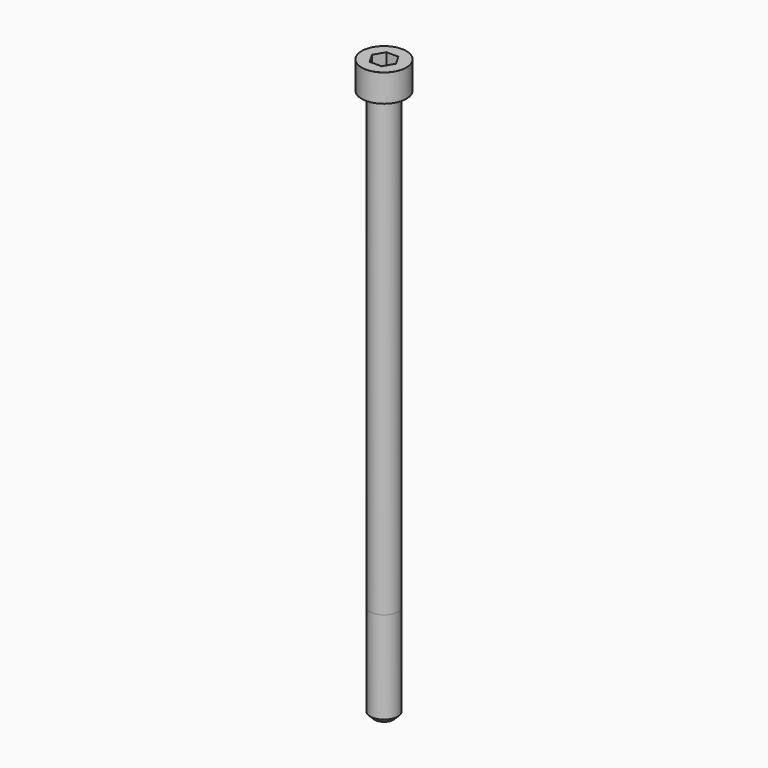
from build123d import *

# Parameters (mm, degrees)
POCKET_DEPTH = 6.06


with BuildPart() as part:
    # Sketch → Revolve (revolve)
    with BuildSketch(Plane.YZ):
        with BuildLine():
            Line((3.999, 0), (6.5, 0))
            Line((6.5, 0), (6.5, 7.97229))
            ThreePointArc((6.5, 7.97229), (6.491884, 7.991884), (6.47229, 8))
            Line((6.47229, 8), (0, 8))
            Line((0, -160), (0, 8))
            Line((2.75, -160), (0, -160))
            Line((4, -158.75), (2.75, -160))
            Line((4, -132), (4, -158.75))
            Line((3.999, 0), (4, -132))
        make_face()
    revolve(axis=Axis((0, 0, 0), (0, 0, 1)))

    # Sketch001 → Pocket (cut)
    with BuildSketch(Plane.XY.offset(8)):
        Polygon((3.498743, 0), (1.749371, 3.03), (-1.749371, 3.03), (-3.498743, 0), (-1.749371, -3.03), (1.749371, -3.03), align=None)
    extrude(amount=-POCKET_DEPTH, mode=Mode.SUBTRACT)


solid = part.part
